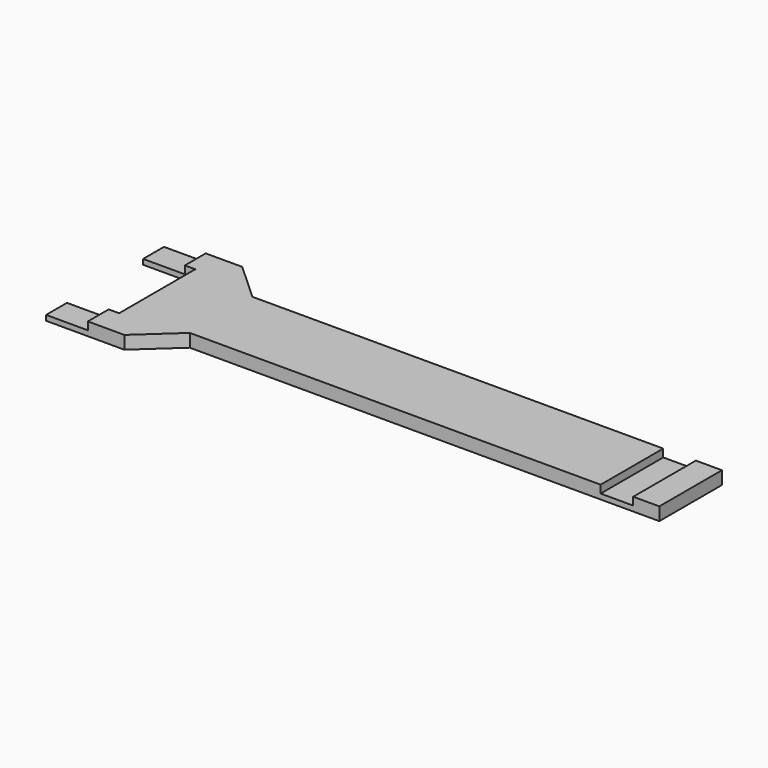
from build123d import *

# Parameters (mm, degrees)
PAD_DEPTH     = 2.5
SKETCH002_W   = 6.25
SKETCH002_H   = 30
SKETCH002_W_2 = 10
SKETCH002_H_2 = 35
POCKET_DEPTH  = 1.5


with BuildPart() as part:
    # Sketch → Pad (new body)
    with BuildSketch(Plane.XY):
        Polygon((-10, 14.125), (5, 14.125), (12.25, 7.5), (102.25, 7.5), (102.25, -7.5), (12.25, -7.5), (5, -14.125), (-10, -14.125), (-10, -9.125), (0, -9.125), (0, 9.125), (-10, 9.125), align=None)
    extrude(amount=PAD_DEPTH)

    # Sketch002 → Pocket (cut)
    with BuildSketch(Plane.XY.offset(2.5)):
        with Locations((94.125, 0)):
            Rectangle(SKETCH002_W, SKETCH002_H)
        with Locations((-7, 0)):
            Rectangle(SKETCH002_W_2, SKETCH002_H_2)
    extrude(amount=-POCKET_DEPTH, mode=Mode.SUBTRACT)


solid = part.part
